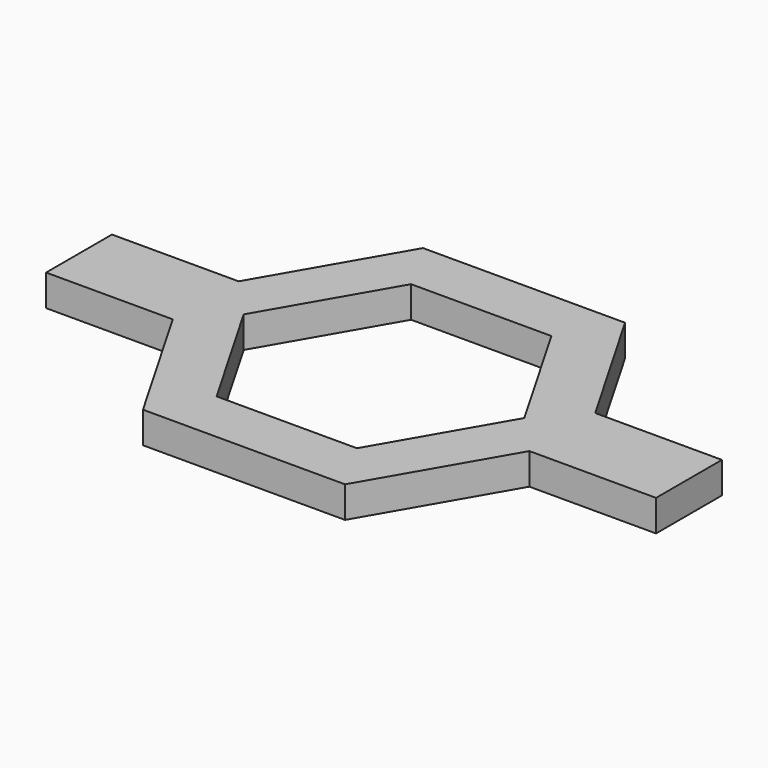
from build123d import *

# Parameters (mm, degrees)
PAD_DEPTH            = 10
PAD002_DEPTH         = 29.635
POCKET_DEPTH         = 0.001
POCKET_DEPTH_BACK    = -14.001
SKETCH004_W          = 82.61631
SKETCH004_H          = 35.698411
SKETCH004_W_2        = 63.407177
SKETCH004_H_2        = 4.929781
POCKET001_DEPTH      = 17.005409
POCKET001_DEPTH_BACK = -17.005409


with BuildPart() as part:
    # Sketch → Pad (new body)
    with BuildSketch(Plane.XY):
        Polygon((19.635, 0), (9.8175, 17.004409), (-9.8175, 17.004409), (-19.635, 0), (-9.8175, -17.004409), (9.8175, -17.004409), align=None)
        Polygon((13.635, 0), (6.8175, 11.808256), (-6.8175, 11.808256), (-13.635, 0), (-6.8175, -11.808256), (6.8175, -11.808256), align=None, mode=Mode.SUBTRACT)
    extrude(amount=PAD_DEPTH)

    # Sketch002 → Pad002 (join, symmetric)
    with BuildSketch(Plane.YZ):
        with BuildLine():
            ThreePointArc((4, 10), (0, 14), (-4, 10))
            Line((-4, 10), (-4, 0))
            Line((-4, 0), (4, 0))
            Line((4, 0), (4, 10))
        make_face()
    extrude(amount=PAD002_DEPTH, both=True)

    # Sketch003 → Pocket (cut, two sides)
    with BuildSketch(Plane.XY) as pocket_sk:
        Polygon((13.635, 0), (6.8175, 11.808256), (-6.8175, 11.808256), (-13.635, 0), (-6.8175, -11.808256), (6.8175, -11.808256), align=None)
    extrude(amount=-POCKET_DEPTH, mode=Mode.SUBTRACT)
    extrude(pocket_sk.sketch, amount=-POCKET_DEPTH_BACK, mode=Mode.SUBTRACT)

    # Sketch004 → Pocket001 (cut, two sides)
    with BuildSketch(Plane.XZ) as pocket001_sk:
        with Locations((0.841957, 8.089457)):
            Rectangle(SKETCH004_W, SKETCH004_H)
        with Locations((0.246989, 0.581458)):
            Rectangle(SKETCH004_W_2, SKETCH004_H_2, mode=Mode.SUBTRACT)
    extrude(amount=-POCKET001_DEPTH, mode=Mode.SUBTRACT)
    extrude(pocket001_sk.sketch, amount=-POCKET001_DEPTH_BACK, mode=Mode.SUBTRACT)


solid = part.part
